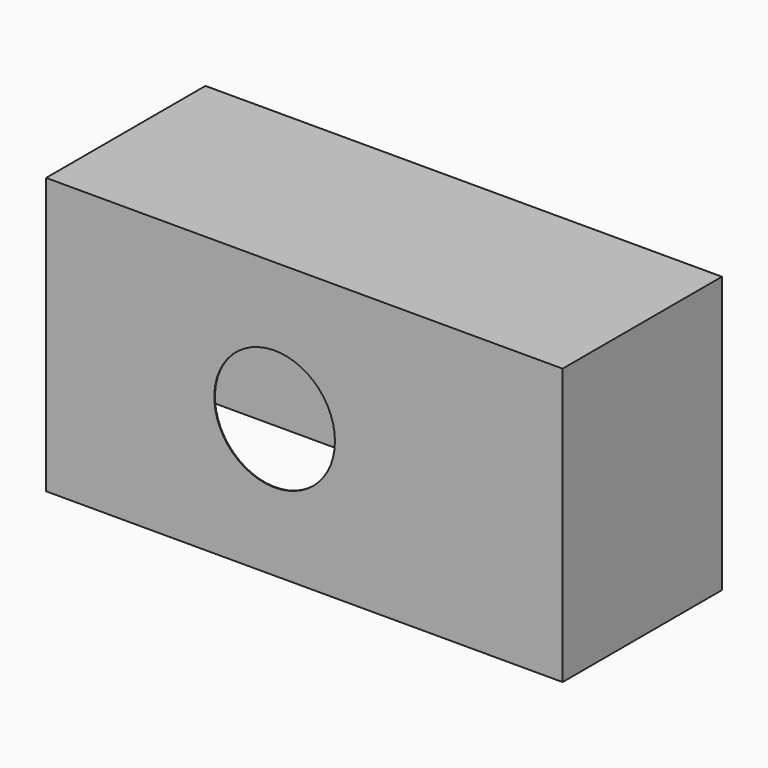
from build123d import *

# Parameters (mm, degrees)
F0_W     = 65.872892
F0_H     = 35.192366
F1_DEPTH = 25.4
F2_T     = -0.1
F3_R     = 7.692897
F4_DEPTH = 42.926


with BuildPart() as f1:
    # F0 (on Front) → F1 (new body)
    with BuildSketch(Plane.XZ):
        Rectangle(F0_W, F0_H)
    extrude(amount=F1_DEPTH)

    # F2
    f2_openings = [f1.faces().sort_by_distance(p)[0] for p in [
        (0, -12.7, -17.596183),
    ]]
    offset(amount=F2_T, openings=f2_openings)

    # F3 (on face) → F4 (cut)
    with BuildSketch(Plane.XZ.offset(25.4)):
        with Locations((-3.789655, 0)):
            Circle(F3_R)
    extrude(amount=-F4_DEPTH, mode=Mode.SUBTRACT)


solid = f1.part
